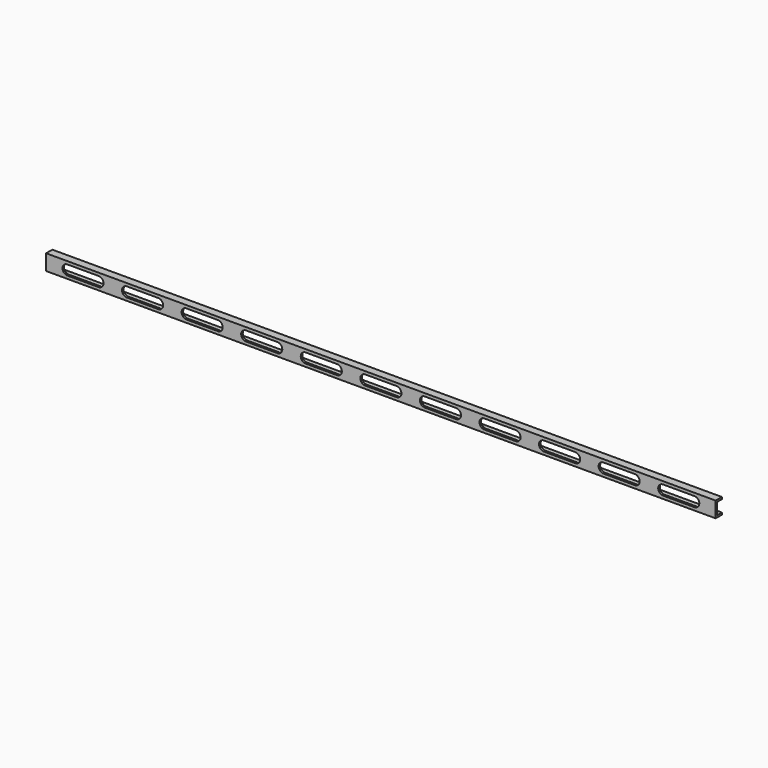
from build123d import *

# Parameters (mm, degrees)
F0_W     = 1085.85
F0_H     = 25.4
F1_DEPTH = 12.7
F2_W     = 9.525
F2_H     = 19.05
F3_DEPTH = 1085.851
F5_DEPTH = 12.701


with BuildPart() as f1:
    # F0 (on Front) → F1 (new body)
    with BuildSketch(Plane.XZ):
        with Locations((141.979393, 26.957907)):
            Rectangle(F0_W, F0_H)
    extrude(amount=F1_DEPTH)

    # F2 (on face) → F3 (cut, through all)
    with BuildSketch(Plane(origin=(-400.945607, 0, 0), x_dir=(0, -1, 0), z_dir=(-1, 0, 0))):
        with Locations((4.7625, 26.957907)):
            Rectangle(F2_W, F2_H)
    extrude(amount=-F3_DEPTH, mode=Mode.SUBTRACT)

    # F4 (on face) → F5 (cut, through all)
    with BuildSketch(Plane.XZ.offset(12.7)):
        with BuildLine():
            ThreePointArc((-366.482657, 19.020407), (-360.869997, 21.345247), (-358.545157, 26.957907))
            ThreePointArc((-358.545157, 26.957907), (-360.869997, 32.570567), (-366.482657, 34.895407))
            ThreePointArc((-366.482657, 34.895407), (-374.420157, 26.957907), (-366.482657, 19.020407))
        make_face()
        with BuildLine():
            ThreePointArc((-366.482657, 34.895407), (-360.869997, 32.570567), (-358.545157, 26.957907))
            ThreePointArc((-358.545157, 26.957907), (-360.869997, 21.345247), (-366.482657, 19.020407))
            Line((-366.482657, 19.020407), (-315.682657, 19.020407))
            ThreePointArc((-315.682657, 19.020407), (-323.620157, 26.957907), (-315.682657, 34.895407))
            Line((-315.682657, 34.895407), (-366.482657, 34.895407))
        make_face()
        with BuildLine():
            ThreePointArc((-307.745157, 26.957907), (-310.069997, 32.570567), (-315.682657, 34.895407))
            ThreePointArc((-315.682657, 34.895407), (-323.620157, 26.957907), (-315.682657, 19.020407))
            ThreePointArc((-315.682657, 19.020407), (-310.069997, 21.345247), (-307.745157, 26.957907))
        make_face()
        with BuildLine():
            ThreePointArc((-261.932747, 26.957907), (-264.257587, 32.570567), (-269.870247, 34.895407))
            ThreePointArc((-269.870247, 34.895407), (-277.807747, 26.957907), (-269.870247, 19.020407))
            ThreePointArc((-269.870247, 19.020407), (-264.257587, 21.345247), (-261.932747, 26.957907))
        make_face()
        with BuildLine():
            Line((-219.070247, 34.895407), (-269.870247, 34.895407))
            ThreePointArc((-269.870247, 34.895407), (-264.257587, 32.570567), (-261.932747, 26.957907))
            ThreePointArc((-261.932747, 26.957907), (-264.257587, 21.345247), (-269.870247, 19.020407))
            Line((-269.870247, 19.020407), (-219.070247, 19.020407))
            ThreePointArc((-219.070247, 19.020407), (-227.007747, 26.957907), (-219.070247, 34.895407))
        make_face()
        with BuildLine():
            ThreePointArc((-211.132747, 26.957907), (-213.457587, 32.570567), (-219.070247, 34.895407))
            ThreePointArc((-219.070247, 34.895407), (-227.007747, 26.957907), (-219.070247, 19.020407))
            ThreePointArc((-219.070247, 19.020407), (-213.457587, 21.345247), (-211.132747, 26.957907))
        make_face()
        with BuildLine():
            ThreePointArc((-165.320337, 26.957907), (-167.645177, 32.570567), (-173.257837, 34.895407))
            ThreePointArc((-173.257837, 34.895407), (-181.195337, 26.957907), (-173.257837, 19.020407))
            ThreePointArc((-173.257837, 19.020407), (-167.645177, 21.345247), (-165.320337, 26.957907))
        make_face()
        with BuildLine():
            Line((-122.457837, 34.895407), (-173.257837, 34.895407))
            ThreePointArc((-173.257837, 34.895407), (-167.645177, 32.570567), (-165.320337, 26.957907))
            ThreePointArc((-165.320337, 26.957907), (-167.645177, 21.345247), (-173.257837, 19.020407))
            Line((-173.257837, 19.020407), (-122.457837, 19.020407))
            ThreePointArc((-122.457837, 19.020407), (-130.395337, 26.957907), (-122.457837, 34.895407))
        make_face()
        with BuildLine():
            ThreePointArc((-114.520337, 26.957907), (-116.845177, 32.570567), (-122.457837, 34.895407))
            ThreePointArc((-122.457837, 34.895407), (-130.395337, 26.957907), (-122.457837, 19.020407))
            ThreePointArc((-122.457837, 19.020407), (-116.845177, 21.345247), (-114.520337, 26.957907))
        make_face()
        with BuildLine():
            ThreePointArc((-68.707927, 26.957907), (-71.032767, 32.570567), (-76.645427, 34.895407))
            ThreePointArc((-76.645427, 34.895407), (-84.582927, 26.957907), (-76.645427, 19.020407))
            ThreePointArc((-76.645427, 19.020407), (-71.032767, 21.345247), (-68.707927, 26.957907))
        make_face()
        with BuildLine():
            Line((-25.845427, 34.895407), (-76.645427, 34.895407))
            ThreePointArc((-76.645427, 34.895407), (-71.032767, 32.570567), (-68.707927, 26.957907))
            ThreePointArc((-68.707927, 26.957907), (-71.032767, 21.345247), (-76.645427, 19.020407))
            Line((-76.645427, 19.020407), (-25.845427, 19.020407))
            ThreePointArc((-25.845427, 19.020407), (-33.782927, 26.957907), (-25.845427, 34.895407))
        make_face()
        with BuildLine():
            ThreePointArc((-17.907927, 26.957907), (-20.232767, 32.570567), (-25.845427, 34.895407))
            ThreePointArc((-25.845427, 34.895407), (-33.782927, 26.957907), (-25.845427, 19.020407))
            ThreePointArc((-25.845427, 19.020407), (-20.232767, 21.345247), (-17.907927, 26.957907))
        make_face()
        with BuildLine():
            ThreePointArc((27.904483, 26.957907), (25.579643, 32.570567), (19.966983, 34.895407))
            ThreePointArc((19.966983, 34.895407), (12.029483, 26.957907), (19.966983, 19.020407))
            ThreePointArc((19.966983, 19.020407), (25.579643, 21.345247), (27.904483, 26.957907))
        make_face()
        with BuildLine():
            Line((70.766983, 34.895407), (19.966983, 34.895407))
            ThreePointArc((19.966983, 34.895407), (25.579643, 32.570567), (27.904483, 26.957907))
            ThreePointArc((27.904483, 26.957907), (25.579643, 21.345247), (19.966983, 19.020407))
            Line((19.966983, 19.020407), (70.766983, 19.020407))
            ThreePointArc((70.766983, 19.020407), (62.829483, 26.957907), (70.766983, 34.895407))
        make_face()
        with BuildLine():
            ThreePointArc((78.704483, 26.957907), (76.379643, 32.570567), (70.766983, 34.895407))
            ThreePointArc((70.766983, 34.895407), (62.829483, 26.957907), (70.766983, 19.020407))
            ThreePointArc((70.766983, 19.020407), (76.379643, 21.345247), (78.704483, 26.957907))
        make_face()
        with BuildLine():
            ThreePointArc((124.516893, 26.957907), (122.192053, 32.570567), (116.579393, 34.895407))
            ThreePointArc((116.579393, 34.895407), (108.641893, 26.957907), (116.579393, 19.020407))
            ThreePointArc((116.579393, 19.020407), (122.192053, 21.345247), (124.516893, 26.957907))
        make_face()
        with BuildLine():
            Line((141.979393, 34.895407), (116.579393, 34.895407))
            ThreePointArc((116.579393, 34.895407), (122.192053, 32.570567), (124.516893, 26.957907))
            ThreePointArc((124.516893, 26.957907), (122.192053, 21.345247), (116.579393, 19.020407))
            Line((116.579393, 19.020407), (141.979393, 19.020407))
            Line((141.979393, 19.020407), (141.979393, 34.895407))
        make_face()
        with BuildLine():
            Line((167.379393, 34.895407), (141.979393, 34.895407))
            Line((141.979393, 34.895407), (141.979393, 19.020407))
            Line((141.979393, 19.020407), (167.379393, 19.020407))
            ThreePointArc((167.379393, 19.020407), (159.441893, 26.957907), (167.379393, 34.895407))
        make_face()
        with BuildLine():
            ThreePointArc((175.316893, 26.957907), (172.992053, 32.570567), (167.379393, 34.895407))
            ThreePointArc((167.379393, 34.895407), (159.441893, 26.957907), (167.379393, 19.020407))
            ThreePointArc((167.379393, 19.020407), (172.992053, 21.345247), (175.316893, 26.957907))
        make_face()
        with BuildLine():
            ThreePointArc((213.191803, 19.020407), (218.804463, 21.345247), (221.129303, 26.957907))
            ThreePointArc((221.129303, 26.957907), (218.804463, 32.570567), (213.191803, 34.895407))
            ThreePointArc((213.191803, 34.895407), (205.254303, 26.957907), (213.191803, 19.020407))
        make_face()
        with BuildLine():
            ThreePointArc((213.191803, 34.895407), (218.804463, 32.570567), (221.129303, 26.957907))
            ThreePointArc((221.129303, 26.957907), (218.804463, 21.345247), (213.191803, 19.020407))
            Line((213.191803, 19.020407), (263.991803, 19.020407))
            ThreePointArc((263.991803, 19.020407), (256.054303, 26.957907), (263.991803, 34.895407))
            Line((263.991803, 34.895407), (213.191803, 34.895407))
        make_face()
        with BuildLine():
            ThreePointArc((271.929303, 26.957907), (269.604463, 32.570567), (263.991803, 34.895407))
            ThreePointArc((263.991803, 34.895407), (256.054303, 26.957907), (263.991803, 19.020407))
            ThreePointArc((263.991803, 19.020407), (269.604463, 21.345247), (271.929303, 26.957907))
        make_face()
        with BuildLine():
            ThreePointArc((309.804213, 19.020407), (315.416873, 21.345247), (317.741713, 26.957907))
            ThreePointArc((317.741713, 26.957907), (315.416873, 32.570567), (309.804213, 34.895407))
            ThreePointArc((309.804213, 34.895407), (301.866713, 26.957907), (309.804213, 19.020407))
        make_face()
        with BuildLine():
            ThreePointArc((309.804213, 34.895407), (315.416873, 32.570567), (317.741713, 26.957907))
            ThreePointArc((317.741713, 26.957907), (315.416873, 21.345247), (309.804213, 19.020407))
            Line((309.804213, 19.020407), (360.604213, 19.020407))
            ThreePointArc((360.604213, 19.020407), (352.666713, 26.957907), (360.604213, 34.895407))
            Line((360.604213, 34.895407), (309.804213, 34.895407))
        make_face()
        with BuildLine():
            ThreePointArc((368.541713, 26.957907), (366.216873, 32.570567), (360.604213, 34.895407))
            ThreePointArc((360.604213, 34.895407), (352.666713, 26.957907), (360.604213, 19.020407))
            ThreePointArc((360.604213, 19.020407), (366.216873, 21.345247), (368.541713, 26.957907))
        make_face()
        with BuildLine():
            ThreePointArc((406.416623, 19.020407), (412.029283, 21.345247), (414.354123, 26.957907))
            ThreePointArc((414.354123, 26.957907), (412.029283, 32.570567), (406.416623, 34.895407))
            ThreePointArc((406.416623, 34.895407), (398.479123, 26.957907), (406.416623, 19.020407))
        make_face()
        with BuildLine():
            ThreePointArc((406.416623, 34.895407), (412.029283, 32.570567), (414.354123, 26.957907))
            ThreePointArc((414.354123, 26.957907), (412.029283, 21.345247), (406.416623, 19.020407))
            Line((406.416623, 19.020407), (457.216623, 19.020407))
            ThreePointArc((457.216623, 19.020407), (449.279123, 26.957907), (457.216623, 34.895407))
            Line((457.216623, 34.895407), (406.416623, 34.895407))
        make_face()
        with BuildLine():
            ThreePointArc((465.154123, 26.957907), (462.829283, 32.570567), (457.216623, 34.895407))
            ThreePointArc((457.216623, 34.895407), (449.279123, 26.957907), (457.216623, 19.020407))
            ThreePointArc((457.216623, 19.020407), (462.829283, 21.345247), (465.154123, 26.957907))
        make_face()
        with BuildLine():
            ThreePointArc((510.966533, 26.957907), (508.641693, 32.570567), (503.029033, 34.895407))
            ThreePointArc((503.029033, 34.895407), (495.091533, 26.957907), (503.029033, 19.020407))
            ThreePointArc((503.029033, 19.020407), (508.641693, 21.345247), (510.966533, 26.957907))
        make_face()
        with BuildLine():
            ThreePointArc((553.829033, 19.020407), (545.891533, 26.957907), (553.829033, 34.895407))
            Line((553.829033, 34.895407), (503.029033, 34.895407))
            ThreePointArc((503.029033, 34.895407), (508.641693, 32.570567), (510.966533, 26.957907))
            ThreePointArc((510.966533, 26.957907), (508.641693, 21.345247), (503.029033, 19.020407))
            Line((503.029033, 19.020407), (553.829033, 19.020407))
        make_face()
        with BuildLine():
            ThreePointArc((553.829033, 19.020407), (559.441693, 21.345247), (561.766533, 26.957907))
            ThreePointArc((561.766533, 26.957907), (559.441693, 32.570567), (553.829033, 34.895407))
            ThreePointArc((553.829033, 34.895407), (545.891533, 26.957907), (553.829033, 19.020407))
        make_face()
        with BuildLine():
            ThreePointArc((607.578943, 26.957907), (605.254103, 32.570567), (599.641443, 34.895407))
            ThreePointArc((599.641443, 34.895407), (591.703943, 26.957907), (599.641443, 19.020407))
            ThreePointArc((599.641443, 19.020407), (605.254103, 21.345247), (607.578943, 26.957907))
        make_face()
        with BuildLine():
            ThreePointArc((650.441443, 19.020407), (642.503943, 26.957907), (650.441443, 34.895407))
            Line((650.441443, 34.895407), (599.641443, 34.895407))
            ThreePointArc((599.641443, 34.895407), (605.254103, 32.570567), (607.578943, 26.957907))
            ThreePointArc((607.578943, 26.957907), (605.254103, 21.345247), (599.641443, 19.020407))
            Line((599.641443, 19.020407), (650.441443, 19.020407))
        make_face()
        with BuildLine():
            ThreePointArc((650.441443, 19.020407), (656.054103, 21.345247), (658.378943, 26.957907))
            ThreePointArc((658.378943, 26.957907), (656.054103, 32.570567), (650.441443, 34.895407))
            ThreePointArc((650.441443, 34.895407), (642.503943, 26.957907), (650.441443, 19.020407))
        make_face()
    extrude(amount=-F5_DEPTH, mode=Mode.SUBTRACT)


solid = f1.part
